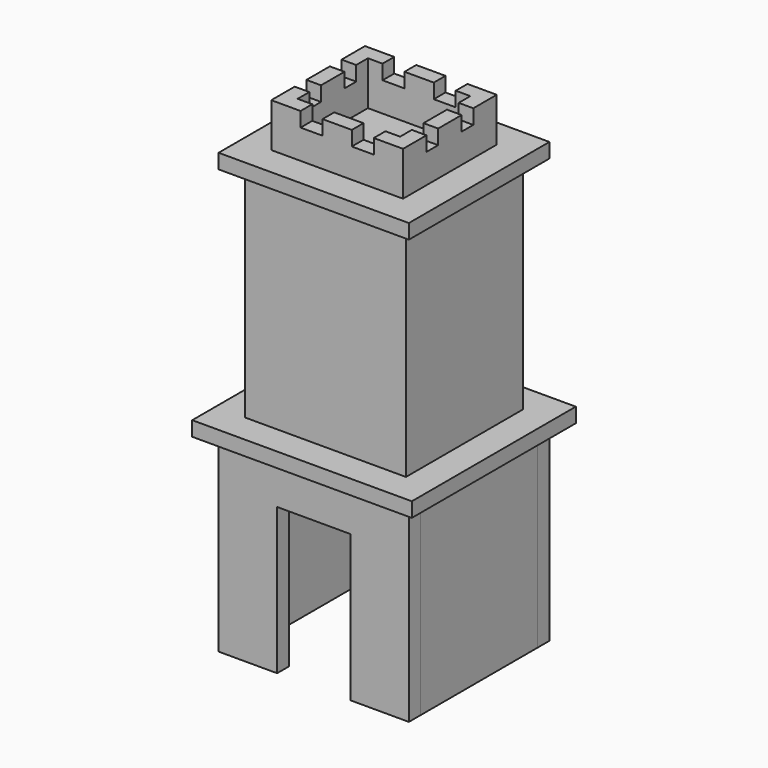
from build123d import *

# Parameters (mm, degrees)
F1_DEPTH  = 10
F2_W      = 10
F2_H      = 130
F3_DEPTH  = 100
F4_W      = 130
F4_H      = 130
F5_DEPTH  = 10
F7_DEPTH  = 10
F8_W      = 110
F8_H      = 100
F8_W_2    = 90
F8_H_2    = 80
F9_DEPTH  = 150
F10_W     = 130
F10_H     = 120
F11_DEPTH = 10
F12_W     = 90
F12_H     = 80
F12_W_2   = 70
F12_H_2   = 60
F13_DEPTH = 30
F14_W     = 15
F14_H     = 10
F15_DEPTH = 110.001
F16_W     = 10
F16_H     = 10
F17_DEPTH = 120.001


with BuildPart() as f1:
    # F0 (on Front) → F1 (new body)
    with BuildSketch(Plane.XZ):
        Polygon((-40, 0), (0, 0), (0, 100), (50, 100), (50, 0), (90, 0), (90, 130), (-40, 130), align=None)
    extrude(amount=F1_DEPTH)


with BuildPart() as f3:
    # F2 (on face) → F3 (new body)
    with BuildSketch(Plane(origin=(0, 0, 0), x_dir=(-1, 0, 0), z_dir=(0, 1, 0))):
        with Locations((-85, 65)):
            Rectangle(F2_W, F2_H)
        with Locations((35, 65)):
            Rectangle(F2_W, F2_H)
    extrude(amount=F3_DEPTH)


with BuildPart() as f5:
    # F4 (on face) → F5 (new body)
    with BuildSketch(Plane(origin=(0, 100, 0), x_dir=(-1, 0, 0), z_dir=(0, 1, 0))):
        with Locations((-25, 65)):
            Rectangle(F4_W, F4_H)
    extrude(amount=F5_DEPTH)


with BuildPart() as f7:
    # F6 (on face) → F7 (new body)
    with BuildSketch(Plane.XY.offset(130)):
        Polygon((100, 120), (-50, 120), (-50, 100), (-50, 0), (-50, -20), (100, -20), (100, 0), (100, 100), align=None)
    extrude(amount=F7_DEPTH)


with BuildPart() as f9:
    # F8 (on face) → F9 (new body)
    with BuildSketch(Plane.XY.offset(140)):
        with Locations((25, 50)):
            Rectangle(F8_W, F8_H)
        with Locations((25, 50)):
            Rectangle(F8_W_2, F8_H_2, mode=Mode.SUBTRACT)
    extrude(amount=F9_DEPTH)


with BuildPart() as f11:
    # F10 (on face) → F11 (new body)
    with BuildSketch(Plane.XY.offset(290)):
        with Locations((25, 50)):
            Rectangle(F10_W, F10_H)
    extrude(amount=F11_DEPTH)


with BuildPart() as f13:
    # F12 (on face) → F13 (new body)
    with BuildSketch(Plane.XY.offset(300)):
        with Locations((25, 50)):
            Rectangle(F12_W, F12_H)
        with Locations((25, 50)):
            Rectangle(F12_W_2, F12_H_2, mode=Mode.SUBTRACT)
    extrude(amount=F13_DEPTH)

    # F14 (on face) → F15 (cut, through all)
    with BuildSketch(Plane.XZ.offset(-10)):
        with Locations((7.5, 325)):
            Rectangle(F14_W, F14_H)
        with Locations((42.5, 325)):
            Rectangle(F14_W, F14_H)
    extrude(amount=-F15_DEPTH, mode=Mode.SUBTRACT)

    # F16 (on face) → F17 (cut, through all)
    with BuildSketch(Plane.YZ.offset(70)):
        with Locations((35, 325)):
            Rectangle(F16_W, F16_H)
        with Locations((65, 325)):
            Rectangle(F16_W, F16_H)
    extrude(amount=-F17_DEPTH, mode=Mode.SUBTRACT)


solid = Compound([f1.part, f3.part, f5.part, f7.part, f9.part, f11.part, f13.part])
